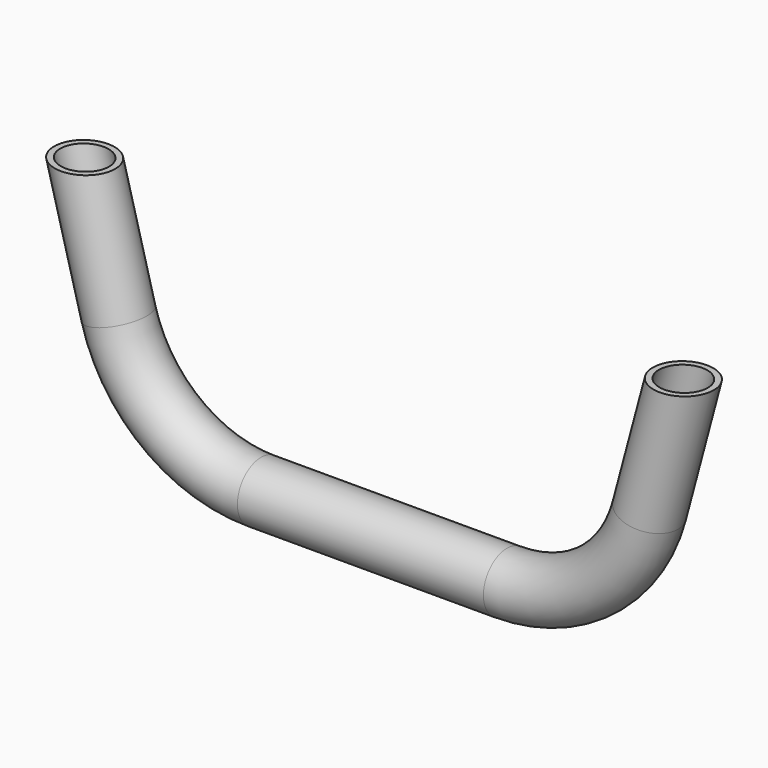
from build123d import *

# Parameters (mm, degrees)
F2_R          = 10
F2_R_2        = 8
F4_W          = 386.4285405924
F4_H          = 84.6193959536
F5_DEPTH      = 10.0010001
F5_DEPTH_BACK = 10.0010001


with BuildPart() as f3:
    # F3: sweep along a path in F0
    with BuildLine(Plane.XZ) as f3_path:
        Line((26.7949192431, 100), (9.9299419155, 37.0590477449))
        ThreePointArc((9.9299419155, 37.0590477449), (-7.9282779485, 10.3323329854), (-38.3663493989, 0))
        Line((-38.3663493989, 0), (-121.7617798121, 0))
        ThreePointArc((-121.7617798121, 0), (-152.1998512625, 10.3323329854), (-170.0580711265, 37.0590477449))
        Line((-170.0580711265, 37.0590477449), (-186.9230484541, 100))
    # F2 (on line) → F3 (sweep)
    with BuildSketch(Plane(origin=(26.7949192431, 0, 100), x_dir=(0.9659258263, 0, -0.2588190451), z_dir=(0.2588190451, 0, 0.9659258263))):
        Circle(F2_R)
        Circle(F2_R_2, mode=Mode.SUBTRACT)
    sweep(path=f3_path.line)

    # F4 (on Front) → F5 (cut, two sides)
    with BuildSketch(Plane.XZ) as f5_sk:
        with Locations((-98.1307812035, 122.3096979768)):
            Rectangle(F4_W, F4_H)
    extrude(amount=-F5_DEPTH, mode=Mode.SUBTRACT)
    extrude(f5_sk.sketch, amount=F5_DEPTH_BACK, mode=Mode.SUBTRACT)


solid = f3.part
